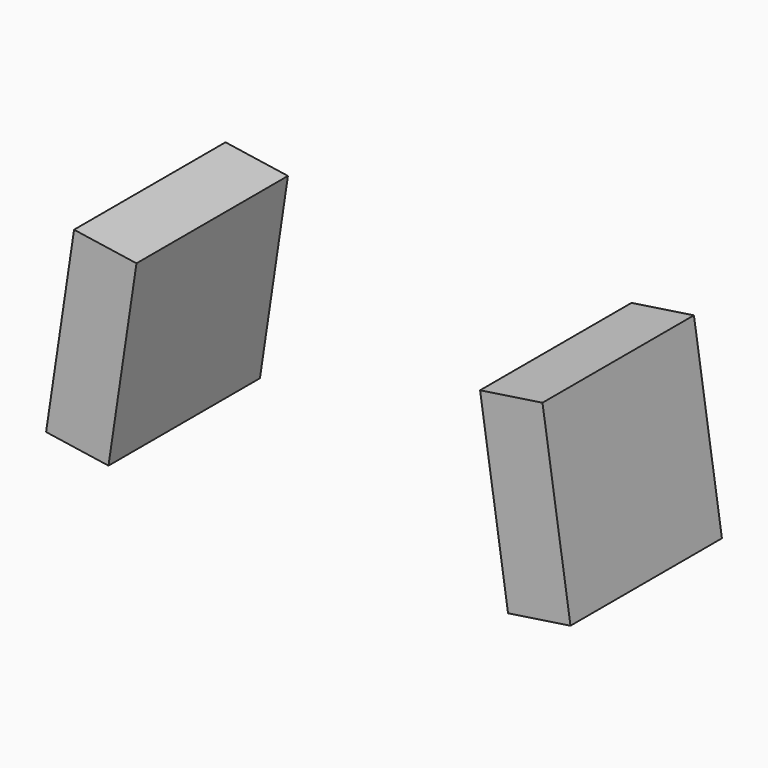
from build123d import *

# Parameters (mm, degrees)
F1_DEPTH = 30


with BuildPart() as f1:
    # F0 (on Front) → F1 (new body)
    with BuildSketch(Plane.XZ):
        Polygon((41.549679, 5.226726), (37.115396, 34.897202), (27.225238, 33.419108), (31.65952, 3.748632), align=None)
        Polygon((-27.225238, 33.419108), (-37.115396, 34.897202), (-41.549679, 5.226726), (-31.65952, 3.748632), align=None)
    extrude(amount=-F1_DEPTH)


solid = f1.part
